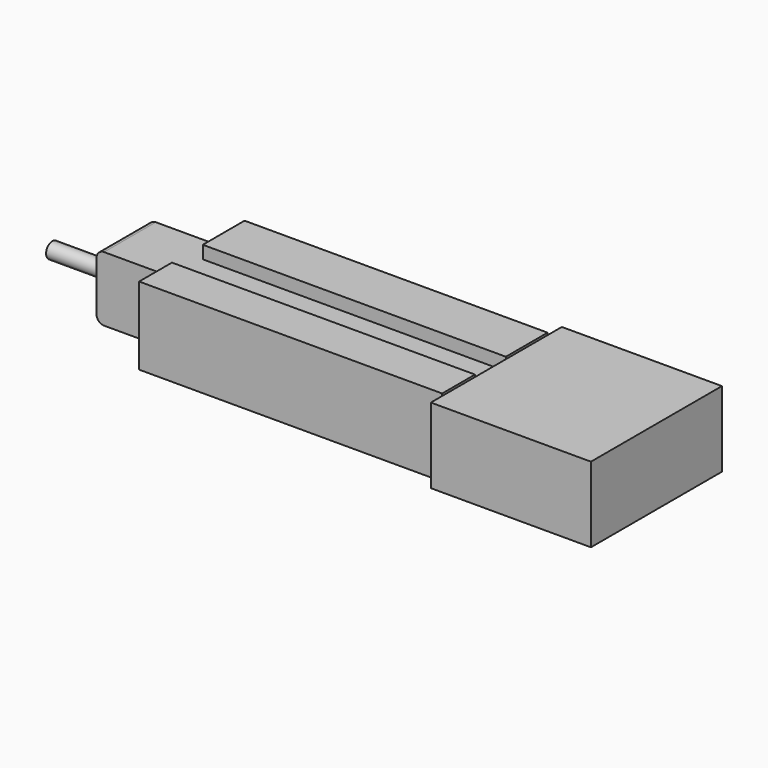
from build123d import *

# Parameters (mm, degrees)
F0_W      = 53.9365671575
F0_H      = 55.1624000072
F1_DEPTH  = 25.4
F2_W      = 18.6239220202
F2_H      = 16.7940715328
F2_W_2    = 25.7758889347
F3_DEPTH  = 102.108
F4_W      = 102.108
F4_H      = 13.8221322559
F4_H_2    = 17.5757771358
F5_DEPTH  = 4.318
F6_DEPTH  = 5.0270510837
F8_DEPTH  = 25.4
F9_R      = 2.6384462804
F10_DEPTH = 25.4
F11_R     = 2.54
F12_R     = 2.54


with BuildPart() as f1:
    # F0 (on Top) → F1 (new body)
    with BuildSketch(Plane.XY):
        with Locations((-10.4117374867, 4.1782557964)):
            Rectangle(F0_W, F0_H)
    extrude(amount=F1_DEPTH)

    # F2 (on face) → F3 (join)
    with BuildSketch(Plane(origin=(-37.3800210655, 0, 0), x_dir=(0, -1, 0), z_dir=(-1, 0, 0))):
        with Locations((9.3119610101, 13.4240868501)):
            Rectangle(F2_W, F2_H)
        with Locations((-12.8879444674, 13.4240868501)):
            Rectangle(F2_W_2, F2_H)
    extrude(amount=F3_DEPTH)

    # F4 (on face) → F5 (join)
    with BuildSketch(Plane.XY.offset(21.8211226165)):
        with Locations((-88.4340210655, -11.7128558923)):
            Rectangle(F4_W, F4_H)
        with Locations((-88.4340210655, 16.9880003668)):
            Rectangle(F4_W, F4_H_2)
    extrude(amount=F5_DEPTH)

    # F6 (add, through all): a face of the model
    f6_faces = [f1.faces().sort_by_distance(p)[0] for p in [
        (-88.4340210655, 3.5759834573, 5.0270510837),
    ]]
    extrude(f6_faces, amount=F6_DEPTH)

    # F7 (on face) → F8 (join)
    with BuildSketch(Plane(origin=(-139.4880210655, 0, 0), x_dir=(0, -1, 0), z_dir=(-1, 0, 0))):
        Polygon((-16.9880003668, 0), (4.8017897643, 0), (4.8017897643, 21.8211226165), (-8.2001117989, 21.8211226165), (-16.9880003668, 21.8211226165), align=None)
    extrude(amount=F8_DEPTH)

    # F9 (on face) → F10 (join)
    with BuildSketch(Plane(origin=(-164.8880210655, 0, 0), x_dir=(0, -1, 0), z_dir=(-1, 0, 0))):
        with Locations((-8.3315027878, 8.0225486308)):
            Circle(F9_R)
    extrude(amount=F10_DEPTH)

    # F11
    f11_edges = [f1.edges().sort_by_distance(p)[0] for p in [
        (-164.888021, 6.093105, 21.821123),
    ]]
    fillet(f11_edges, radius=F11_R)

    # F12
    f12_edges = [f1.edges().sort_by_distance(p)[0] for p in [
        (-164.888021, 6.093105, 0),
    ]]
    fillet(f12_edges, radius=F12_R)


solid = f1.part
